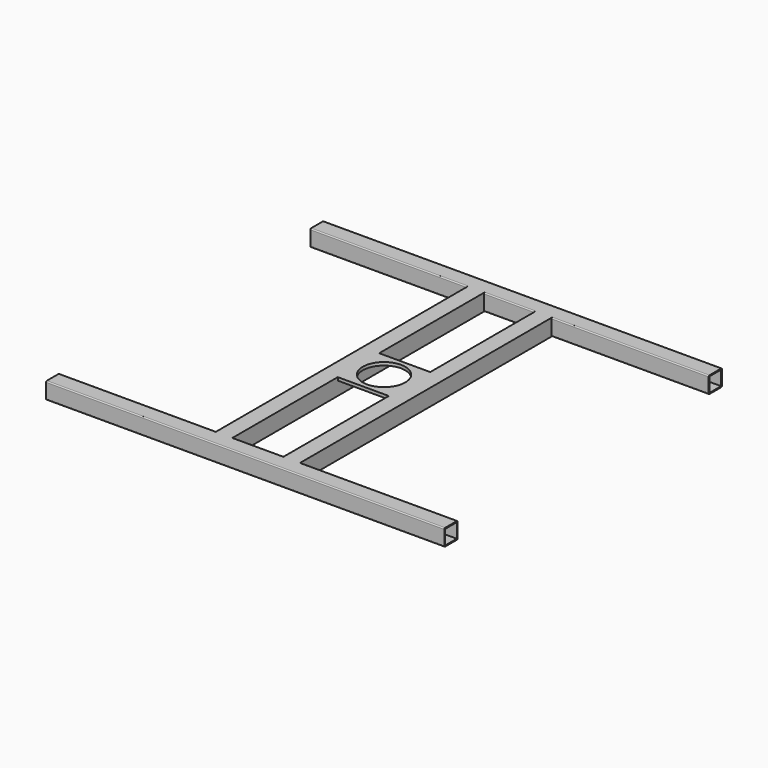
from build123d import *

# Parameters (mm, degrees)
F0_W          = 28
F0_H          = 28
F1_DEPTH      = 384.5
F2_W          = 32
F2_H          = 32
F2_W_2        = 28
F2_H_2        = 28
F3_DEPTH      = 608
F3_DEPTH_BACK = 25
F4_W          = 99.2901008725
F4_H          = 100
F5_DEPTH      = 6
F6_R          = 41
F7_DEPTH      = 32.001


with BuildPart() as f1:
    # F0 (on Right) → F1 (new body, symmetric)
    with BuildSketch(Plane.YZ):
        with BuildLine():
            ThreePointArc((-335, -14), (-334.4142135624, -15.4142135624), (-333, -16))
            Line((-333, -16), (-305, -16))
            ThreePointArc((-305, -16), (-303.5857864376, -15.4142135624), (-303, -14))
            Line((-303, -14), (-303, 14))
            ThreePointArc((-303, 14), (-303.5857864376, 15.4142135624), (-305, 16))
            Line((-305, 16), (-333, 16))
            ThreePointArc((-333, 16), (-334.4142135624, 15.4142135624), (-335, 14))
            Line((-335, 14), (-335, -14))
        make_face()
        with Locations((-319, 0)):
            Rectangle(F0_W, F0_H, mode=Mode.SUBTRACT)
    extrude(amount=F1_DEPTH, both=True)



with BuildPart() as f1b:
    # F0 (on Right) → F1, piece 2 (new body, symmetric)
    with BuildSketch(Plane.YZ):
        with BuildLine():
            ThreePointArc((335, 14), (334.4142135624, 15.4142135624), (333, 16))
            Line((333, 16), (305, 16))
            ThreePointArc((305, 16), (303.5857864376, 15.4142135624), (303, 14))
            Line((303, 14), (303, -14))
            ThreePointArc((303, -14), (303.5857864376, -15.4142135624), (305, -16))
            Line((305, -16), (333, -16))
            ThreePointArc((333, -16), (334.4142135624, -15.4142135624), (335, -14))
            Line((335, -14), (335, 14))
        make_face()
        with Locations((319, 0)):
            Rectangle(F0_W, F0_H, mode=Mode.SUBTRACT)
    extrude(amount=F1_DEPTH, both=True)


with BuildPart() as f1_1:
    add(f1.part)

    add(f1b.part)  # F3 merges F1b
    # F2 (on face) → F3 (join, two sides)
    with BuildSketch(Plane(origin=(0, -303, 0), x_dir=(-1, 0, 0), z_dir=(0, 1, 0))) as f3_sk:
        with Locations((-65.2901008725, 0)):
            Rectangle(F2_W, F2_H)
        with Locations((-65.2901008725, 0)):
            Rectangle(F2_W_2, F2_H_2, mode=Mode.SUBTRACT)
        with Locations((65.2901008725, 0)):
            Rectangle(F2_W, F2_H)
        with Locations((65.2901008725, 0)):
            Rectangle(F2_W_2, F2_H_2, mode=Mode.SUBTRACT)
        with Locations((-65.2901008725, 0)):
            Rectangle(F2_W, F2_H)
        with Locations((-65.2901008725, 0)):
            Rectangle(F2_W_2, F2_H_2, mode=Mode.SUBTRACT)
        with Locations((65.2901008725, 0)):
            Rectangle(F2_W, F2_H)
        with Locations((65.2901008725, 0)):
            Rectangle(F2_W_2, F2_H_2, mode=Mode.SUBTRACT)
    extrude(amount=F3_DEPTH)
    extrude(f3_sk.sketch, amount=-F3_DEPTH_BACK)

    # F4 (on face) → F5 (join)
    with BuildSketch(Plane.XY.offset(16)):
        with Locations((0.3549495637, 0)):
            Rectangle(F4_W, F4_H)
        with Locations((0.3549495637, 0)):
            Rectangle(F4_W, F4_H)
    extrude(amount=-F5_DEPTH)

    # F6 (on face) → F7 (cut, through all)
    with BuildSketch(Plane.XY.offset(16)):
        Circle(F6_R)
    extrude(amount=-F7_DEPTH, mode=Mode.SUBTRACT)


solid = f1_1.part
